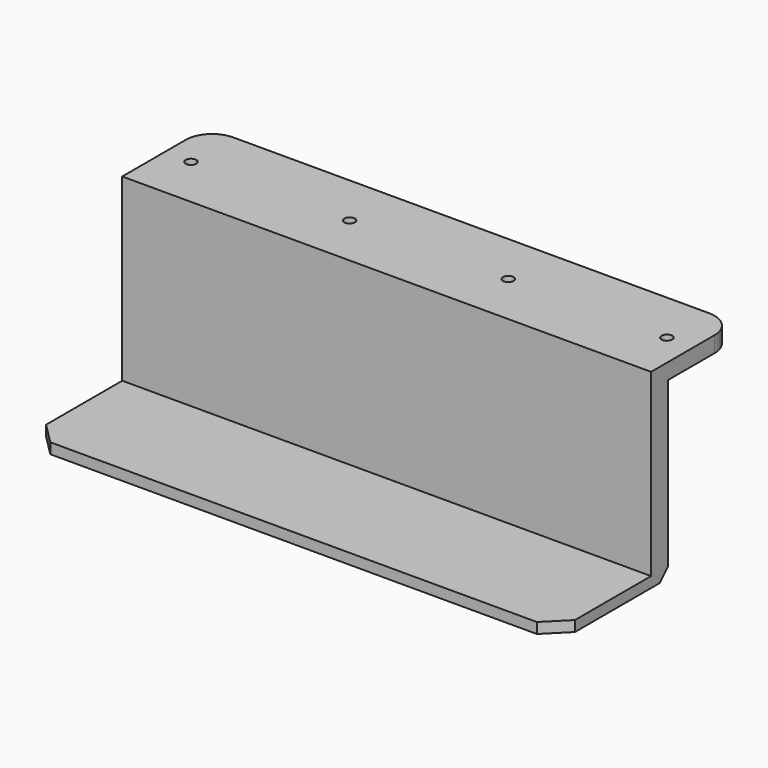
from build123d import *

# Parameters (mm, degrees)
F1_DEPTH = 127
F2_SIZE  = 5.08
F4_D     = 2.54
F5_R     = 6.35
F6_SIZE  = 2.54


with BuildPart() as f1:
    # F0 (on Right) → F1 (new body)
    with BuildSketch(Plane.YZ):
        Polygon((0, 2.54), (0, 0), (33.02, 0), (33.02, 41.91), (53.34, 41.91), (53.34, 45.72), (27.94, 45.72), (27.94, 2.54), align=None)
    extrude(amount=-F1_DEPTH)

    # F2
    f2_edges = [f1.edges().sort_by_distance(p)[0] for p in [
        (0, 0, 1.27),
        (-127, 0, 1.27),
    ]]
    chamfer(f2_edges, length=F2_SIZE)

    # F4 (through all)
    with Locations(Plane.XY.offset(45.72)):
        with Locations((-120.65, 40.64), (-82.55, 40.64), (-44.45, 40.64), (-6.35, 40.64)):
            Hole(F4_D / 2)

    # F5
    f5_edges = [f1.edges().sort_by_distance(p)[0] for p in [
        (0, 53.34, 43.815),
        (-127, 53.34, 43.815),
    ]]
    fillet(f5_edges, radius=F5_R)

    # F6
    f6_edges = [f1.edges().sort_by_distance(p)[0] for p in [
        (-63.5, 33.02, 0),
    ]]
    chamfer(f6_edges, length=F6_SIZE)


solid = f1.part
